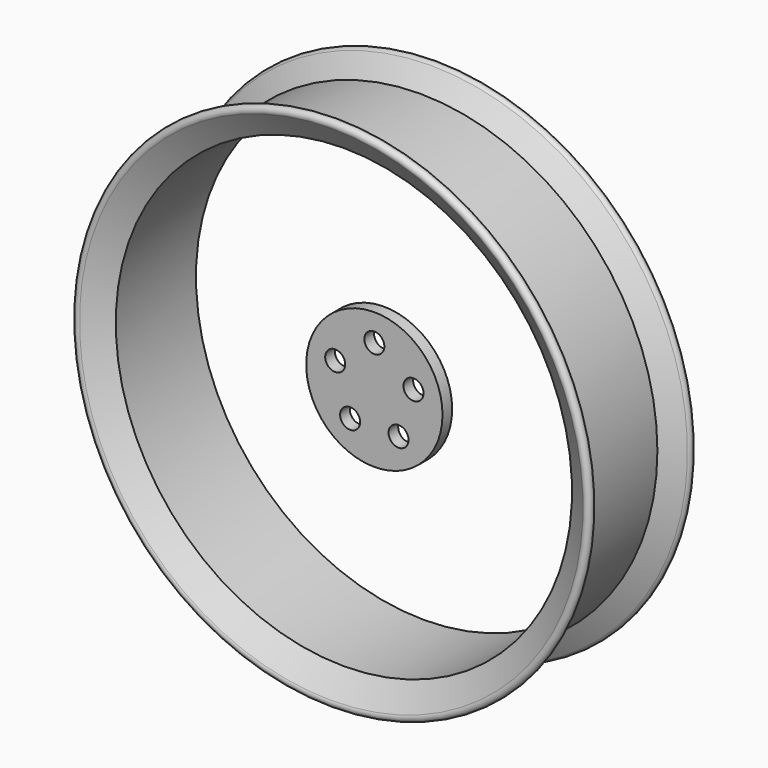
from build123d import *

# Parameters (mm, degrees)
F3_R     = 11.471021
F4_DEPTH = 2.032
F5_R     = 1.684991
F6_DEPTH = 13.25241


with BuildPart() as f2:
    # F0 (on Right) → F2 (revolve)
    with BuildSketch(Plane.YZ):
        with BuildLine():
            Line((0, 38.393427), (8.437075, 38.393427))
            Line((8.437075, 38.393427), (11.091433, 42.374961))
            ThreePointArc((11.091433, 42.374961), (10.880092, 43.431665), (9.823388, 43.220325))
            Line((9.823388, 43.220325), (7.621455, 39.917427))
            Line((7.621455, 39.917427), (0, 39.917427))
            Line((0, 39.917427), (-7.621455, 39.917427))
            Line((-7.621455, 39.917427), (-9.823388, 43.220325))
            ThreePointArc((-9.823388, 43.220325), (-10.880092, 43.431665), (-11.091433, 42.374961))
            Line((-11.091433, 42.374961), (-8.437075, 38.393427))
            Line((-8.437075, 38.393427), (0, 38.393427))
        make_face()
    revolve(axis=Axis((0, -0.379195, 0), (0, 1, 0)))


with BuildPart() as f4:
    # F3 (on Front) → F4 (new body)
    with BuildSketch(Plane.XZ):
        Circle(F3_R)
    extrude(amount=F4_DEPTH)

    # F5 (on face) → F6 (cut, through all)
    with BuildSketch(Plane.XZ.offset(2.032)):
        with Locations((0, 6.929396)):
            Circle(F5_R)
        with Locations((6.590247, 2.141301)):
            Circle(F5_R)
        with Locations((4.072997, -5.605999)):
            Circle(F5_R)
        with Locations((-4.072997, -5.605999)):
            Circle(F5_R)
        with Locations((-6.590247, 2.141301)):
            Circle(F5_R)
    extrude(amount=-F6_DEPTH, mode=Mode.SUBTRACT)


solid = Compound([f2.part, f4.part])
